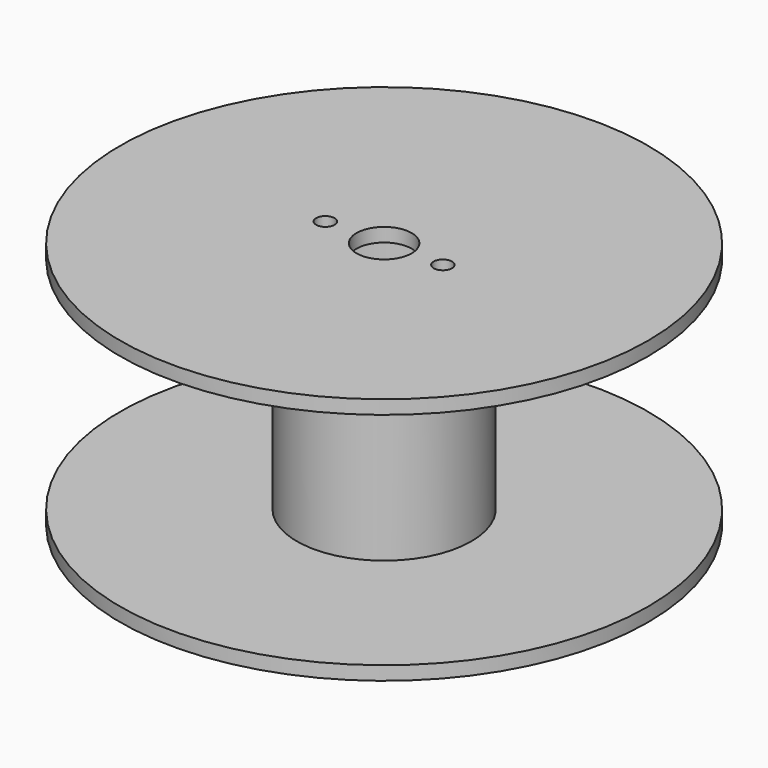
from build123d import *

# Parameters (mm, degrees)
F0_R     = 365.125
F1_DEPTH = 19.05
F2_R     = 120.65
F2_R_2   = 101.6
F3_DEPTH = 304.8
F4_R     = 365.125
F4_R_2   = 120.65
F4_R_3   = 101.6
F5_DEPTH = 19.05
F6_R     = 38.1
F7_DEPTH = 355.6
F8_R     = 12.7
F9_DEPTH = 355.6


with BuildPart() as f1:
    # F0 (on Top) → F1 (new body)
    with BuildSketch(Plane.XY):
        Circle(F0_R)
    extrude(amount=F1_DEPTH)

    # F2 (on face) → F3 (join)
    with BuildSketch(Plane.XY.offset(19.05)):
        Circle(F2_R)
        Circle(F2_R_2, mode=Mode.SUBTRACT)
    extrude(amount=F3_DEPTH)

    # F4 (on face) → F5 (join)
    with BuildSketch(Plane.XY.offset(323.85)):
        Circle(F4_R)
        Circle(F4_R_2, mode=Mode.SUBTRACT)
        Circle(F4_R_2)
        Circle(F4_R_3, mode=Mode.SUBTRACT)
        Circle(F4_R_3)
    extrude(amount=F5_DEPTH)

    # F6 (on face) → F7 (cut)
    with BuildSketch(Plane(origin=(0, 0, 0), x_dir=(1, 0, 0), z_dir=(0, 0, -1))):
        Circle(F6_R)
    extrude(amount=-F7_DEPTH, mode=Mode.SUBTRACT)

    # F8 (on face) → F9 (cut)
    with BuildSketch(Plane.XY.offset(342.9)):
        with Locations((-81.28, 0)):
            Circle(F8_R)
        with Locations((81.28, 0)):
            Circle(F8_R)
    extrude(amount=-F9_DEPTH, mode=Mode.SUBTRACT)


solid = f1.part
